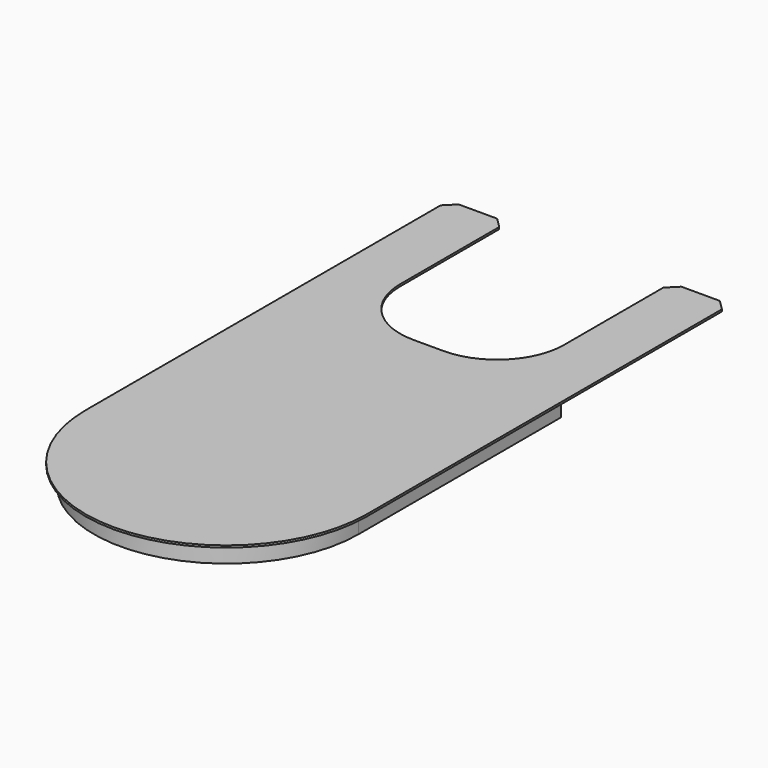
from build123d import *

# Parameters (mm, degrees)
PAD_DEPTH    = 5.5
THICKNESS_T  = -0.86
PAD001_DEPTH = 0.6
SKETCH002_W  = 17.5
SKETCH002_H  = 60
PAD002_DEPTH = 0.6
CHAMFER_SIZE = 3
FILLET_R     = 20


with BuildPart() as part:
    # Sketch → Pad (new body)
    with BuildSketch(Plane.XY):
        with BuildLine():
            Line((-39.5, 75.5), (-39.5, 0))
            ThreePointArc((-39.5, 0), (0, -39.5), (39.5, 0))
            Line((39.5, 0), (39.5, 75.5))
            Line((39.5, 75.5), (-39.5, 75.5))
        make_face()
    extrude(amount=-PAD_DEPTH)

    # Thickness
    thickness_openings = [part.faces().sort_by_distance(p)[0] for p in [
        (0, 21.873555, 0),
        (0, 75.5, -2.75),
        (0, 21.873555, -5.5),
    ]]
    offset(amount=THICKNESS_T, openings=thickness_openings)

    # Sketch001 → Pad001 (join)
    with BuildSketch(Plane.XY):
        with BuildLine():
            Line((-42, 75.5), (-42, 0))
            ThreePointArc((-42, 0), (0, -42), (42, 0))
            Line((42, 0), (42, 75.5))
            Line((42, 75.5), (-42, 75.5))
        make_face()
    extrude(amount=PAD001_DEPTH)

    # Sketch002 → Pad002 (join)
    with BuildSketch(Plane.XY):
        with Locations((-33.25, 105.5)):
            Rectangle(SKETCH002_W, SKETCH002_H)
    pad002 = extrude(amount=PAD002_DEPTH)

    # Mirrored: Pad002 across Sketch002 V_Axis
    add(pad002.mirror(Plane(origin=(0, 0, 0), x_dir=(0, 0, 1), z_dir=(1, 0, 0))))

    # Chamfer
    chamfer_edges = [part.edges().sort_by_distance(p)[0] for p in [
        (-24.5, 135.5, 0.3),
        (24.5, 135.5, 0.3),
        (-42, 135.5, 0.3),
        (42, 135.5, 0.3),
    ]]
    chamfer(chamfer_edges, length=CHAMFER_SIZE)

    # Fillet
    fillet_edges = [part.edges().sort_by_distance(p)[0] for p in [
        (24.5, 75.5, 0.3),
        (-24.5, 75.5, 0.3),
    ]]
    fillet(fillet_edges, radius=FILLET_R)


solid = part.part
